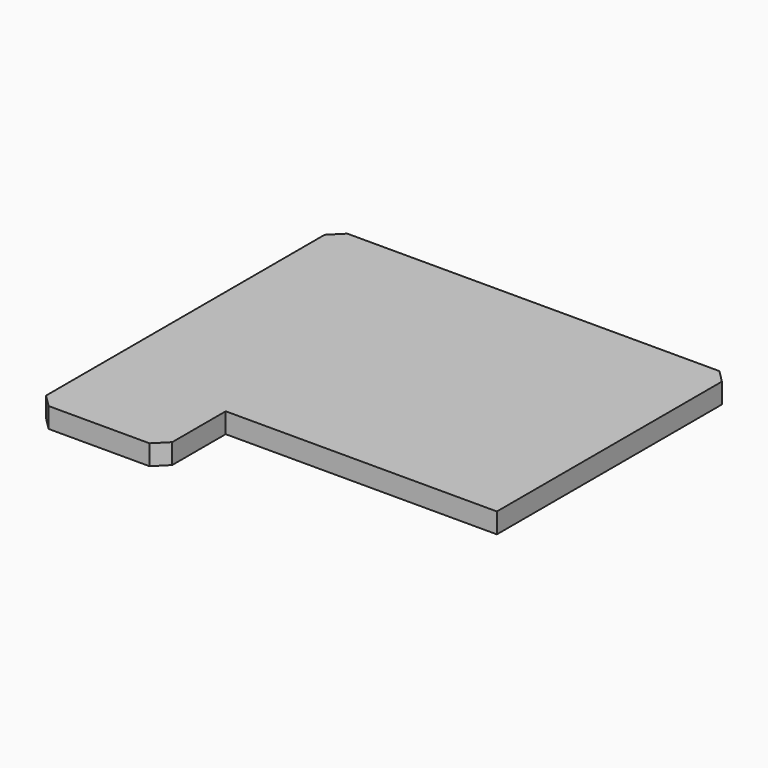
from build123d import *

# Parameters (mm, degrees)
BOX002_W        = 31.5
BOX002_H        = 23.3
BOX002_DEPTH    = 1.6
CHAMFER001_SIZE = 1
BOX003_W        = 10
BOX003_H        = 6.3
BOX003_DEPTH    = 1.6
CHAMFER_SIZE    = 1


with BuildPart() as chamfer001:
    # Box002 → Box002 (new body)
    with BuildSketch(Plane.XY):
        with Locations((15.75, 11.65)):
            Rectangle(BOX002_W, BOX002_H)
    extrude(amount=BOX002_DEPTH)

    # Chamfer001
    chamfer001_edges = [chamfer001.edges().sort_by_distance(p)[0] for p in [
        (0, 23.3, 0.8),
        (31.5, 23.3, 0.8),
    ]]
    chamfer(chamfer001_edges, length=CHAMFER001_SIZE)


with BuildPart() as obj1:
    # Box003 → Box003 (new body)
    with BuildSketch(Plane(origin=(0, -6.3, 0), x_dir=(1, 0, 0), z_dir=(0, 0, 1))):
        with Locations((5, 3.15)):
            Rectangle(BOX003_W, BOX003_H)
    extrude(amount=BOX003_DEPTH)

    # Chamfer
    chamfer_edges = [obj1.edges().sort_by_distance(p)[0] for p in [
        (0, -6.3, 0.8),
        (10, -6.3, 0.8),
    ]]
    chamfer(chamfer_edges, length=CHAMFER_SIZE)

    # Fusion: union Chamfer001
    add(chamfer001.part)


solid = obj1.part
